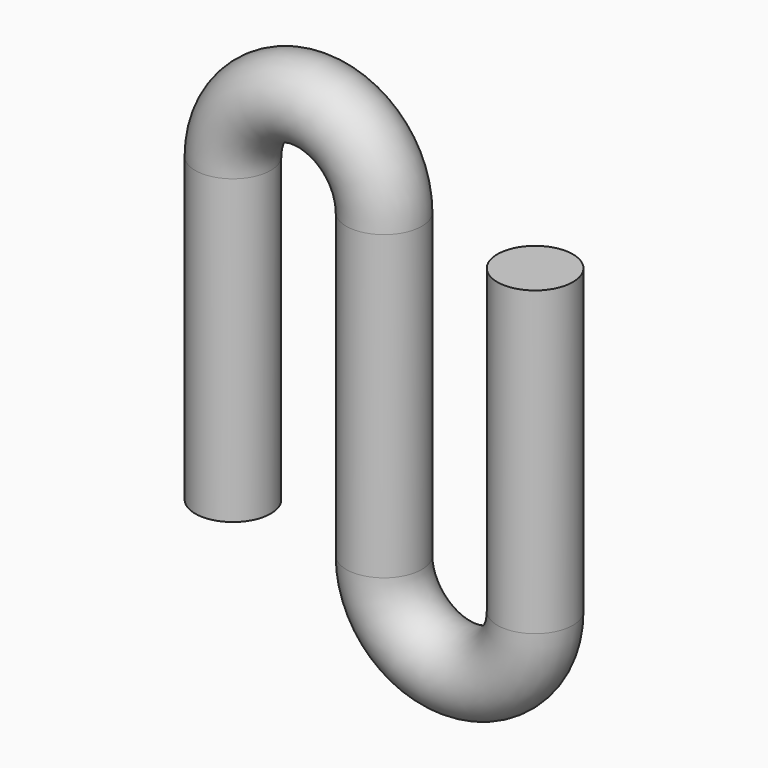
from build123d import *

# Parameters (mm, degrees)
F1_R = 10


with BuildPart() as f2:
    # F2: sweep along a path in F0
    with BuildLine(Plane.XZ) as f2_path:
        Line((0, 0), (0, 80))
        ThreePointArc((0, 80), (20, 100), (40, 80))
        Line((40, 80), (40, 0))
        ThreePointArc((40, 0), (60, -20), (80, 0))
        Line((80, 0), (80, 80))
    # F1 (on Top) → F2 (sweep)
    with BuildSketch(Plane.XY):
        Circle(F1_R)
    sweep(path=f2_path.line)


solid = f2.part
